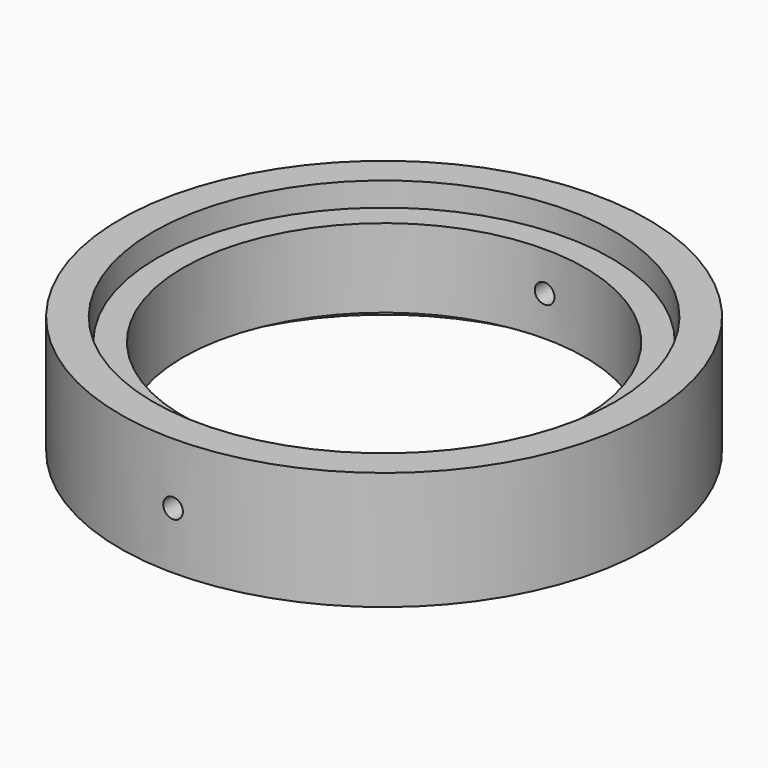
from build123d import *

# Parameters (mm, degrees)
F2_R      = 45.826779
F0_R      = 28.670847
F4_T      = -2.5
F5_R      = 33.51658
F5_R_2    = 29.289311
F6_DEPTH  = 15
F9_R      = 28.832409
F9_R_2    = 25.507292
F10_DEPTH = 5
F11_R     = 1.25
F12_DEPTH = 33.51758
F13_DEPTH = 31


with BuildPart() as f3:
    # F2 (on offset) → F3 section 0
    with BuildSketch(Plane.XY.offset(140)):
        with Locations((0, 0.277012)):
            Circle(F2_R)
    # F0 (on Top) → F3 section 1
    with BuildSketch(Plane.XY):
        with Locations((0, -0.265393)):
            Circle(F0_R)
    loft()

    # F4
    f4_openings = [f3.faces().sort_by_distance(p)[0] for p in [
        (0, 0.277012, 140),
    ]]
    offset(amount=F4_T, openings=f4_openings)


with BuildPart() as f6:
    # F5 (on face) → F6 (new body)
    with BuildSketch(Plane(origin=(0, 0, 0), x_dir=(1, 0, 0), z_dir=(0, 0, -1))):
        Circle(F5_R)
        Circle(F5_R_2, mode=Mode.SUBTRACT)
    extrude(amount=F6_DEPTH)


with BuildPart() as f10:
    # F9 (on offset) → F10 (new body, symmetric)
    with BuildSketch(Plane.XY.offset(-7.8)):
        Circle(F9_R)
        Circle(F9_R_2, mode=Mode.SUBTRACT)
    extrude(amount=F10_DEPTH, both=True)


with BuildPart() as f12_tool:
    # F11 (on Front) → F12 (new body, through all)
    with BuildSketch(Plane.XZ):
        with Locations((0, -7.756886)):
            Circle(F11_R)
    extrude(amount=F12_DEPTH)


with BuildPart() as f6_1:
    add(f6.part)

    # F12: cut by f12_tool
    add(f12_tool.part, mode=Mode.SUBTRACT)


with BuildPart() as f10_1:
    add(f10.part)

    # F12: cut by f12_tool
    add(f12_tool.part, mode=Mode.SUBTRACT)


with BuildPart() as f13_tool:
    # F11 (on Front) → F13 (new body)
    with BuildSketch(Plane.XZ):
        with Locations((0, -7.756886)):
            Circle(F11_R)
    extrude(amount=-F13_DEPTH)


with BuildPart() as f6_2:
    add(f6_1.part)

    # F13: cut by f13_tool
    add(f13_tool.part, mode=Mode.SUBTRACT)


with BuildPart() as f10_2:
    add(f10_1.part)

    # F13: cut by f13_tool
    add(f13_tool.part, mode=Mode.SUBTRACT)


solid = Compound([f6_2.part, f10_2.part])
